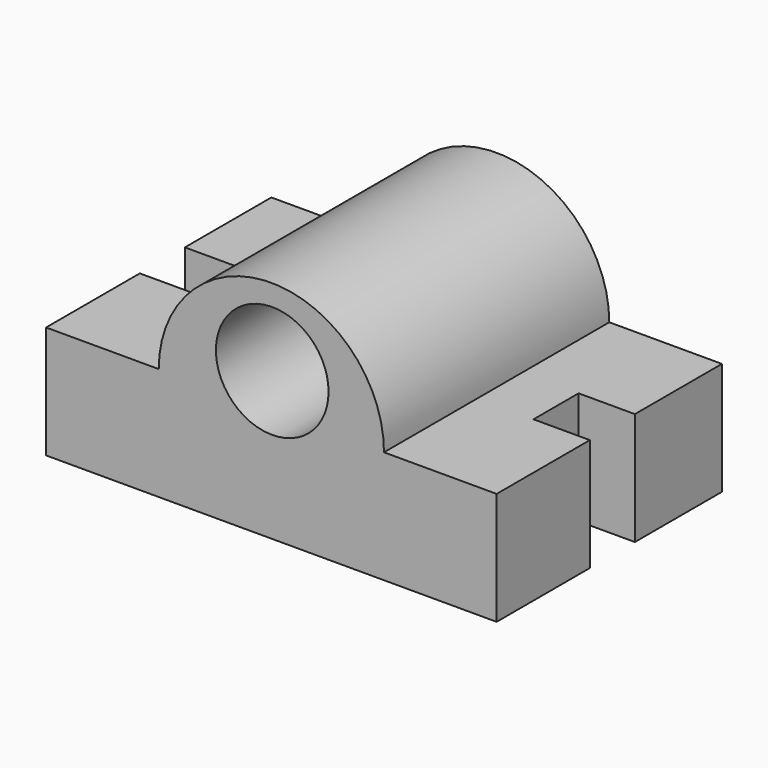
from build123d import *

# Parameters (mm, degrees)
F1_DEPTH = 63.5
F2_W     = 12.7
F2_H     = 12.7
F3_DEPTH = 25.401
F4_W     = 12.7
F4_H     = 12.7
F5_DEPTH = 25.401
F6_R     = 12.7
F7_DEPTH = 63.501


with BuildPart() as f1:
    # F0 (on Front) → F1 (new body)
    with BuildSketch(Plane.XZ):
        with BuildLine():
            Line((0, 25.4), (0, 0))
            Line((0, 0), (101.6, 0))
            Line((101.6, 0), (101.6, 25.4))
            Line((101.6, 25.4), (76.2, 25.4))
            ThreePointArc((76.2, 25.4), (50.8, 50.8), (25.4, 25.4))
            Line((25.4, 25.4), (0, 25.4))
        make_face()
    extrude(amount=F1_DEPTH)

    # F2 (on face) → F3 (cut, through all)
    with BuildSketch(Plane.XY.offset(25.4)):
        with Locations((6.35, -30.732608)):
            Rectangle(F2_W, F2_H)
    extrude(amount=-F3_DEPTH, mode=Mode.SUBTRACT)

    # F4 (on face) → F5 (cut, through all)
    with BuildSketch(Plane.XY.offset(25.4)):
        with Locations((95.25, -30.880931)):
            Rectangle(F4_W, F4_H)
    extrude(amount=-F5_DEPTH, mode=Mode.SUBTRACT)

    # F6 (on face) → F7 (cut, through all)
    with BuildSketch(Plane.XZ.offset(63.5)):
        with Locations((50.996758, 33.347253)):
            Circle(F6_R)
    extrude(amount=-F7_DEPTH, mode=Mode.SUBTRACT)


solid = f1.part
